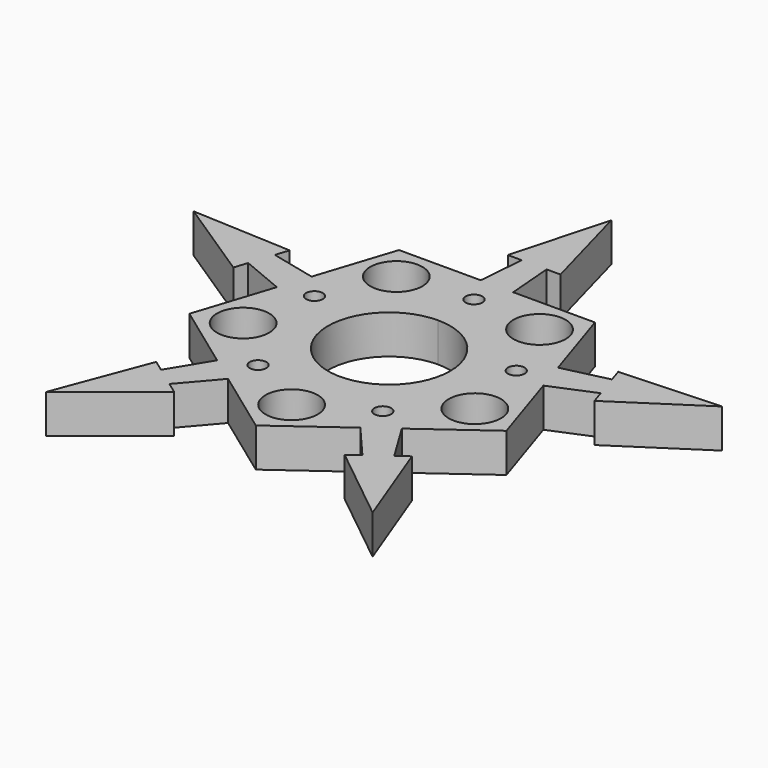
from build123d import *

# Parameters (mm, degrees)
F0_R     = 4.7
F0_R_2   = 1.5
F1_DEPTH = 7


with BuildPart() as f1:
    # F0 (on Top) → F1 (new body)
    with BuildSketch(Plane.XY):
        with BuildLine():
            ThreePointArc((0, 11), (-7.778175, -7.778175), (11, 0))
            ThreePointArc((11, 0), (7.778175, 7.778175), (0, 11))
        make_face()
        Polygon((-11.904089, -21.351173), (0, -30), (11.904089, -21.351173), (17.370574, -27.71889), (15.348032, -29.188353), (29.389263, -40.45085), (23.016971, -23.616543), (20.994428, -25.086006), (16.627607, -17.919337), (28.531695, -9.27051), (23.984738, 4.723586), (31.730034, 7.95479), (32.502576, 5.577148), (47.552826, 15.45085), (29.573302, 14.592527), (30.345844, 12.214886), (22.180515, 10.276414), (17.633558, 24.27051), (2.919295, 24.27051), (2.239665, 32.63522), (4.739665, 32.63522), (0, 50), (-4.739665, 32.63522), (-2.239665, 32.63522), (-2.919295, 24.27051), (-17.633558, 24.27051), (-22.180515, 10.276414), (-30.345844, 12.214886), (-29.573302, 14.592527), (-47.552826, 15.45085), (-32.502576, 5.577148), (-31.730034, 7.95479), (-23.984738, 4.723586), (-28.531695, -9.27051), (-16.627607, -17.919337), (-20.994428, -25.086006), (-23.016971, -23.616543), (-29.389263, -40.45085), (-15.348032, -29.188353), (-17.370574, -27.71889), align=None)
        with Locations((0, -21.928555)):
            Circle(F0_R, mode=Mode.SUBTRACT)
        with Locations((-20.855295, -6.776296)):
            Circle(F0_R, mode=Mode.SUBTRACT)
        with Locations((-11.226448, -15.45188)):
            Circle(F0_R_2, mode=Mode.SUBTRACT)
        with BuildLine():
            ThreePointArc((0, 11), (7.778175, 7.778175), (11, 0))
            ThreePointArc((11, 0), (-7.778175, -7.778175), (0, 11))
        make_face(mode=Mode.SUBTRACT)
        with Locations((11.226448, -15.45188)):
            Circle(F0_R_2, mode=Mode.SUBTRACT)
        with Locations((20.855295, -6.776296)):
            Circle(F0_R, mode=Mode.SUBTRACT)
        with Locations((-18.164775, 5.902093)):
            Circle(F0_R_2, mode=Mode.SUBTRACT)
        with Locations((-12.889281, 17.740573)):
            Circle(F0_R, mode=Mode.SUBTRACT)
        with Locations((0, 19.099575)):
            Circle(F0_R_2, mode=Mode.SUBTRACT)
        with Locations((18.164775, 5.902093)):
            Circle(F0_R_2, mode=Mode.SUBTRACT)
        with Locations((12.889281, 17.740573)):
            Circle(F0_R, mode=Mode.SUBTRACT)
    extrude(amount=F1_DEPTH)


solid = f1.part
